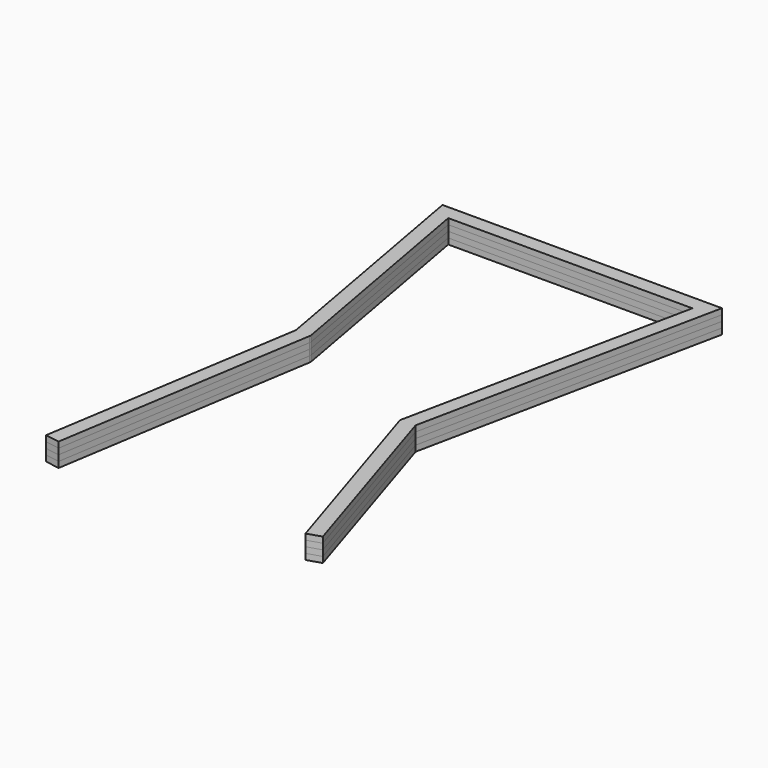
from build123d import *

# Parameters (mm, degrees)
F1_DEPTH = 4


with BuildPart() as f1:
    # F0 (on Top) → F1 (new body)
    with BuildSketch(Plane.XY):
        Polygon((42.39078, -37.467309), (85.124089, -172.077525), (94.65529, -169.052042), (52.713664, -36.935041), (96.032295, 172.077524), (-96.032295, 172.077524), (-66.538488, 9.314676), (-94.983091, -169.780335), (-85.106864, -171.349231), (-56.528935, 8.585694), (-56.395782, 9.425092), (-84.057488, 162.077445), (83.747085, 162.077445), align=None)
    extrude(amount=F1_DEPTH)


with BuildPart() as f2_1:
    # F2: instance of F1
    add(f1.part.mirror(Plane(origin=(-2.3035039063, 32.7912756396, 4), x_dir=(1, 0, 0), z_dir=(0, 0, 1))))


with BuildPart() as f3_1:
    # F3: instance of F2_1
    add(f2_1.part.mirror(Plane(origin=(-2.3035039063, 32.7912756396, 8), x_dir=(1, 0, 0), z_dir=(0, 0, 1))))


with BuildPart() as f3_2:
    # F3: instance of F1
    add(f1.part.mirror(Plane(origin=(-2.3035039063, 32.7912756396, 8), x_dir=(1, 0, 0), z_dir=(0, 0, 1))))


solid = Compound([f1.part, f2_1.part, f3_1.part, f3_2.part])
